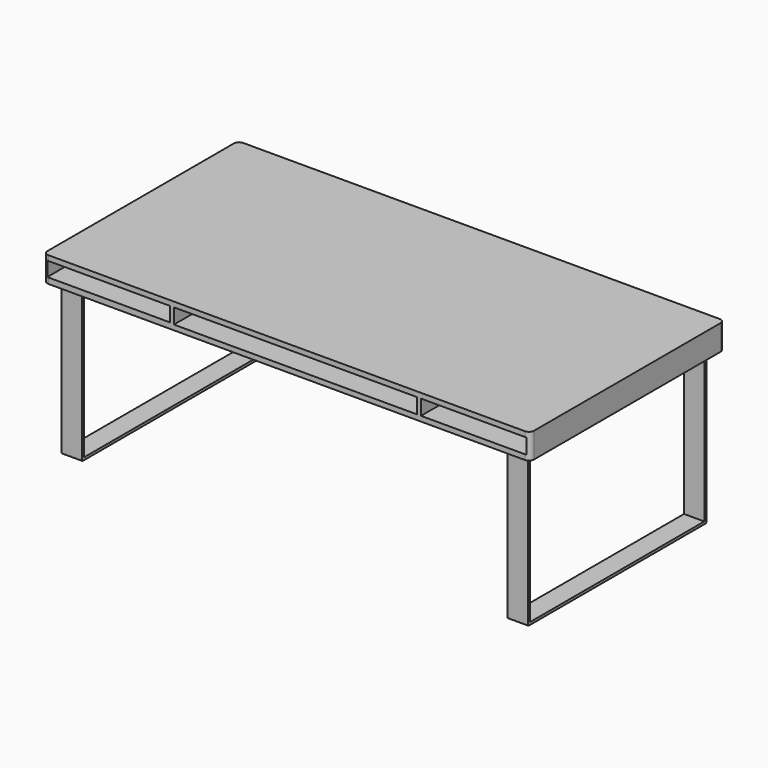
from build123d import *

# Parameters (mm, degrees)
F0_W     = 2438.4
F0_H     = 1219.2
F1_DEPTH = 127
F2_W     = 101.6
F2_H     = 1117.6
F3_DEPTH = 762
F4_T     = -12.7
F6_R     = 5.08
F7_R     = 25.4
F8_W     = 527.05
F8_H     = 76.2
F8_W_2   = 1219.2
F8_W_3   = 615.95
F8_H_2   = 72.793415
F9_DEPTH = 609.6


with BuildPart() as f1:
    # F0 (on Top) → F1 (new body)
    with BuildSketch(Plane.XY):
        with Locations((475.172071, 224.506834)):
            Rectangle(F0_W, F0_H)
    extrude(amount=F1_DEPTH)

    # F7
    f7_edges = [f1.edges().sort_by_distance(p)[0] for p in [
        (1694.372071, 834.106834, 63.5),
        (1694.372071, -385.093166, 63.5),
        (-744.027929, 834.106834, 63.5),
        (-744.027929, -385.093166, 63.5),
    ]]
    fillet(f7_edges, radius=F7_R)

    # F8 (on face) → F9 (cut)
    with BuildSketch(Plane.XZ.offset(385.093166)):
        with Locations((1411.797071, 63.5)):
            Rectangle(F8_W, F8_H)
        with Locations((519.622071, 63.5)):
            Rectangle(F8_W_2, F8_H)
        with Locations((-417.002929, 65.0987)):
            Rectangle(F8_W_3, F8_H_2)
    extrude(amount=-F9_DEPTH, mode=Mode.SUBTRACT)


with BuildPart() as f3:
    # F2 (on face) → F3 (new body)
    with BuildSketch(Plane(origin=(0, 0, 0), x_dir=(1, 0, 0), z_dir=(0, 0, -1))):
        with Locations((1592.772071, -224.506834)):
            Rectangle(F2_W, F2_H)
    extrude(amount=F3_DEPTH)

    # F4
    f4_openings = [f3.faces().sort_by_distance(p)[0] for p in [
        (1643.572071, 224.506834, -381),
        (1541.972071, 224.506834, -381),
    ]]
    offset(amount=F4_T, openings=f4_openings)

    # F6
    f6_edges = [f3.edges().sort_by_distance(p)[0] for p in [
        (1592.772071, 783.306834, -762),
        (1592.772071, -334.293166, -762),
    ]]
    fillet(f6_edges, radius=F6_R)


with BuildPart() as f5_1:
    # F5: copy of F3
    add(f3.part.moved(Location((-2235.2, 0, 0))))


solid = Compound([f1.part, f3.part, f5_1.part])
